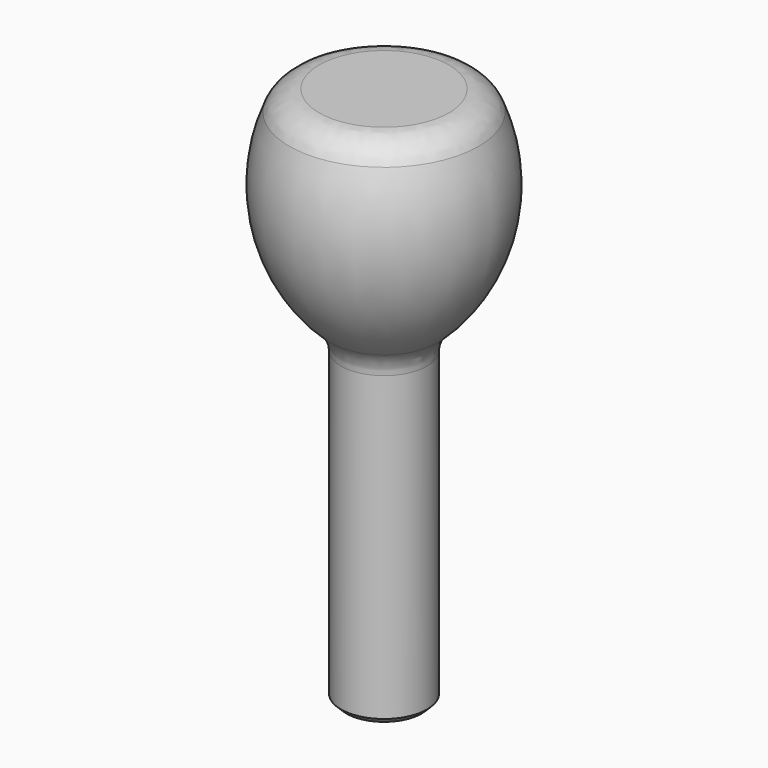
from build123d import *

# Parameters (mm, degrees)
F2_R     = 3
F3_R     = 1.65
F4_DEPTH = 20
F5_SIZE  = 0.5


with BuildPart() as f1:
    # F0 (on Front) → F1 (revolve)
    with BuildSketch(Plane.XZ):
        with BuildLine():
            Line((0, 50), (0, 0))
            Line((0, 0), (4, 0))
            Line((4, 0), (4, 30))
            ThreePointArc((4, 30), (9.718003, 39.267051), (7.880182, 50))
            Line((7.880182, 50), (0, 50))
        make_face()
    revolve(axis=Axis((0, 0, 42.201201), (0, 0, -1)))

    # F2
    f2_edges = [f1.edges().sort_by_distance(p)[0] for p in [
        (-7.880182, 0, 50),
        (-4, 0, 30),
    ]]
    fillet(f2_edges, radius=F2_R)

    # F3 (on face) → F4 (cut)
    with BuildSketch(Plane(origin=(0, 0, 0), x_dir=(1, 0, 0), z_dir=(0, 0, -1))):
        Circle(F3_R)
    extrude(amount=-F4_DEPTH, mode=Mode.SUBTRACT)

    # F5
    f5_edges = [f1.edges().sort_by_distance(p)[0] for p in [
        (-1.65, 0, 0),
        (-4, 0, 0),
    ]]
    chamfer(f5_edges, length=F5_SIZE)


solid = f1.part
